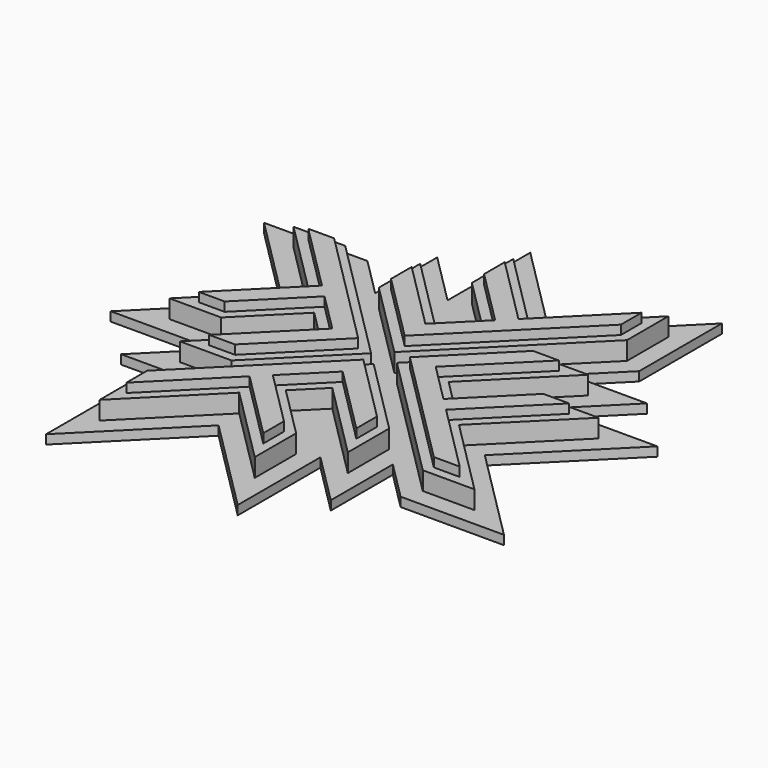
from build123d import *

# Parameters (mm, degrees)
F1_DEPTH  = 12.7
F5_COUNT  = 4
F7_DEPTH  = 6.35
F10_DEPTH = 6.35
F12_ANGLE = 45


with BuildPart() as f1:
    # F0 (on Top) → F1 (new body)
    with BuildSketch(Plane.XY):
        Polygon((0, 96.8275029659), (0, -30.1724970341), (25.4, -55.5724970341), (25.4, 20.6275029659), (101.6, 20.6275029659), (76.2, 46.0275029659), (25.4, 46.0275029659), (25.4, 71.4275029659), (101.6, 71.4275029659), (76.2, 96.8275029659), align=None)
        Polygon((19.05, -40.242240913), (6.35, -27.542240913), (6.35, 90.4775029659), (73.5697438789, 90.4775029659), (86.2697438789, 77.7775029659), (19.05, 77.7775029659), (19.05, 39.6775029659), (73.5697438789, 39.6775029659), (86.2697438789, 26.9775029659), (19.05, 26.9775029659), align=None, mode=Mode.SUBTRACT)
        Polygon((6.35, 90.4775029659), (6.35, -27.542240913), (19.05, -40.242240913), (19.05, 26.9775029659), (86.2697438789, 26.9775029659), (73.5697438789, 39.6775029659), (19.05, 39.6775029659), (19.05, 77.7775029659), (86.2697438789, 77.7775029659), (73.5697438789, 90.4775029659), align=None)
    extrude(amount=-F1_DEPTH)


with BuildPart() as f5_1:
    # F5: instance of F1
    add(f1.part.rotate(Axis((-6.35, 103.1775029659, -6.3492297195), (0, 0, -1)), 1 * 360 / F5_COUNT))


with BuildPart() as f5_2:
    # F5: instance of F1
    add(f1.part.rotate(Axis((-6.35, 103.1775029659, -6.3492297195), (0, 0, -1)), 2 * 360 / F5_COUNT))


with BuildPart() as f5_3:
    # F5: instance of F1
    add(f1.part.rotate(Axis((-6.35, 103.1775029659, -6.3492297195), (0, 0, -1)), 3 * 360 / F5_COUNT))


with BuildPart() as f7:
    # F6 (on face) → F7 (new body)
    with BuildSketch(Plane(origin=(0, 0, -12.7), x_dir=(1, 0, 0), z_dir=(0, 0, -1))):
        Polygon((-50.8, -292.5880152081), (0, -241.7880152081), (0, -203.6880152081), (38.1, -241.7880152081), (38.1, -190.9880152081), (88.9, -241.7880152081), (88.9, -147.6275029659), (183.0605122421, -147.6275029659), (132.2605122421, -96.8275029659), (94.1605122421, -96.8275029659), (132.2605122421, -58.7275029659), (81.4605122421, -58.7275029659), (132.2605122421, -7.9275029659), (38.1, -7.9275029659), (38.1, 86.2330092762), (-12.7, 35.4330092762), (-12.7, -2.6669907238), (-50.8, 35.4330092762), (-50.8, -15.3669907238), (-101.6, 35.4330092762), (-101.6, -58.7275029659), (-195.7605122421, -58.7275029659), (-144.9605122421, -109.5275029659), (-106.8605122421, -109.5275029659), (-144.9605122421, -147.6275029659), (-94.1605122421, -147.6275029659), (-144.9605122421, -198.4275029659), (-50.8, -198.4275029659), align=None)
        Polygon((-12.7, -109.5275029659), (-12.7, -236.5275029659), (-38.1, -261.9275029659), (-38.1, -185.7275029659), (-114.3, -185.7275029659), (-88.9, -160.3275029659), (-38.1, -160.3275029659), (-38.1, -134.9275029659), (-114.3, -134.9275029659), (-88.9, -109.5275029659), align=None, mode=Mode.SUBTRACT)
        Polygon((25.4, -211.1275029659), (0, -185.7275029659), (0, -109.5275029659), (127, -109.5275029659), (152.4, -134.9275029659), (76.2, -134.9275029659), (76.2, -211.1275029659), (50.8, -185.7275029659), (50.8, -134.9275029659), (25.4, -134.9275029659), align=None, mode=Mode.SUBTRACT)
        Polygon((-12.7, -96.8275029659), (-139.7, -96.8275029659), (-165.1, -71.4275029659), (-88.9, -71.4275029659), (-88.9, 4.7724970341), (-63.5, -20.6275029659), (-63.5, -71.4275029659), (-38.1, -71.4275029659), (-38.1, 4.7724970341), (-12.7, -20.6275029659), align=None, mode=Mode.SUBTRACT)
        Polygon((0, -96.8275029659), (0, 30.1724970341), (25.4, 55.5724970341), (25.4, -20.6275029659), (101.6, -20.6275029659), (76.2, -46.0275029659), (25.4, -46.0275029659), (25.4, -71.4275029659), (101.6, -71.4275029659), (76.2, -96.8275029659), align=None, mode=Mode.SUBTRACT)
        Polygon((-165.1, -71.4275029659), (-139.7, -96.8275029659), (-12.7, -96.8275029659), (-12.7, -20.6275029659), (-38.1, 4.7724970341), (-38.1, -71.4275029659), (-63.5, -71.4275029659), (-63.5, -20.6275029659), (-88.9, 4.7724970341), (-88.9, -71.4275029659), align=None)
        Polygon((25.4, 55.5724970341), (0, 30.1724970341), (0, -96.8275029659), (76.2, -96.8275029659), (101.6, -71.4275029659), (25.4, -71.4275029659), (25.4, -46.0275029659), (76.2, -46.0275029659), (101.6, -20.6275029659), (25.4, -20.6275029659), align=None)
        Polygon((0, -109.5275029659), (0, -185.7275029659), (25.4, -211.1275029659), (25.4, -134.9275029659), (50.8, -134.9275029659), (50.8, -185.7275029659), (76.2, -211.1275029659), (76.2, -134.9275029659), (152.4, -134.9275029659), (127, -109.5275029659), align=None)
        Polygon((-38.1, -261.9275029659), (-12.7, -236.5275029659), (-12.7, -109.5275029659), (-88.9, -109.5275029659), (-114.3, -134.9275029659), (-38.1, -134.9275029659), (-38.1, -160.3275029659), (-88.9, -160.3275029659), (-114.3, -185.7275029659), (-38.1, -185.7275029659), align=None)
    extrude(amount=F7_DEPTH)


with BuildPart() as f7_1:
    # F8: moved
    add(f7.part.moved(Location((6.35, -103.1775029659, 0))))


with BuildPart() as f1_1:
    # F8: moved
    add(f1.part.moved(Location((6.35, -103.1775029659, 0))))


with BuildPart() as f5_1_1:
    # F8: moved
    add(f5_1.part.moved(Location((6.35, -103.1775029659, 0))))


with BuildPart() as f5_2_1:
    # F8: moved
    add(f5_2.part.moved(Location((6.35, -103.1775029659, 0))))


with BuildPart() as f5_3_1:
    # F8: moved
    add(f5_3.part.moved(Location((6.35, -103.1775029659, 0))))


with BuildPart() as f10:
    # F9 (on face) → F10 (new body)
    with BuildSketch(Plane.XY):
        Polygon((-12.7, 12.7), (-12.7, 130.7197438789), (-25.4, 143.4197438789), (-25.4, 76.2), (-92.6197438789, 76.2), (-79.9197438789, 63.5), (-25.4, 63.5), (-25.4, 25.4), (-92.6197438789, 25.4), (-79.9197438789, 12.7), align=None)
    extrude(amount=F10_DEPTH)


with BuildPart() as f10b:
    # F9 (on face) → F10, piece 2 (new body)
    with BuildSketch(Plane.XY):
        Polygon((63.5, 79.9197438789), (63.5, 25.4), (25.4, 25.4), (25.4, 92.6197438789), (12.7, 79.9197438789), (12.7, 12.7), (130.7197438789, 12.7), (143.4197438789, 25.4), (76.2, 25.4), (76.2, 92.6197438789), align=None)
    extrude(amount=F10_DEPTH)


with BuildPart() as f10c:
    # F9 (on face) → F10, piece 3 (new body)
    with BuildSketch(Plane.XY):
        Polygon((12.7, -12.7), (12.7, -130.7197438789), (25.4, -143.4197438789), (25.4, -76.2), (92.6197438789, -76.2), (79.9197438789, -63.5), (25.4, -63.5), (25.4, -25.4), (92.6197438789, -25.4), (79.9197438789, -12.7), align=None)
    extrude(amount=F10_DEPTH)


with BuildPart() as f10d:
    # F9 (on face) → F10, piece 4 (new body)
    with BuildSketch(Plane.XY):
        Polygon((-25.4, -25.4), (-25.4, -92.6197438789), (-12.7, -79.9197438789), (-12.7, -12.7), (-130.7197438789, -12.7), (-143.4197438789, -25.4), (-76.2, -25.4), (-76.2, -92.6197438789), (-63.5, -79.9197438789), (-63.5, -25.4), align=None)
    extrude(amount=F10_DEPTH)


with BuildPart() as f1_2:
    # F12: moved
    add(f1_1.part.rotate(Axis((0, 0, -6.35), (0, 0, -1)), F12_ANGLE))


with BuildPart() as f5_2_2:
    # F12: moved
    add(f5_2_1.part.rotate(Axis((0, 0, -6.35), (0, 0, -1)), F12_ANGLE))


with BuildPart() as f5_3_2:
    # F12: moved
    add(f5_3_1.part.rotate(Axis((0, 0, -6.35), (0, 0, -1)), F12_ANGLE))


with BuildPart() as f5_1_2:
    # F12: moved
    add(f5_1_1.part.rotate(Axis((0, 0, -6.35), (0, 0, -1)), F12_ANGLE))


with BuildPart() as f7_2:
    # F12: moved
    add(f7_1.part.rotate(Axis((0, 0, -6.35), (0, 0, -1)), F12_ANGLE))


with BuildPart() as f10b_1:
    # F12: moved
    add(f10b.part.rotate(Axis((0, 0, -6.35), (0, 0, -1)), F12_ANGLE))


with BuildPart() as f10_1:
    # F12: moved
    add(f10.part.rotate(Axis((0, 0, -6.35), (0, 0, -1)), F12_ANGLE))


with BuildPart() as f10d_1:
    # F12: moved
    add(f10d.part.rotate(Axis((0, 0, -6.35), (0, 0, -1)), F12_ANGLE))


with BuildPart() as f10c_1:
    # F12: moved
    add(f10c.part.rotate(Axis((0, 0, -6.35), (0, 0, -1)), F12_ANGLE))


solid = Compound([f1_2.part, f5_2_2.part, f5_3_2.part, f5_1_2.part, f7_2.part, f10b_1.part, f10_1.part, f10d_1.part, f10c_1.part])
